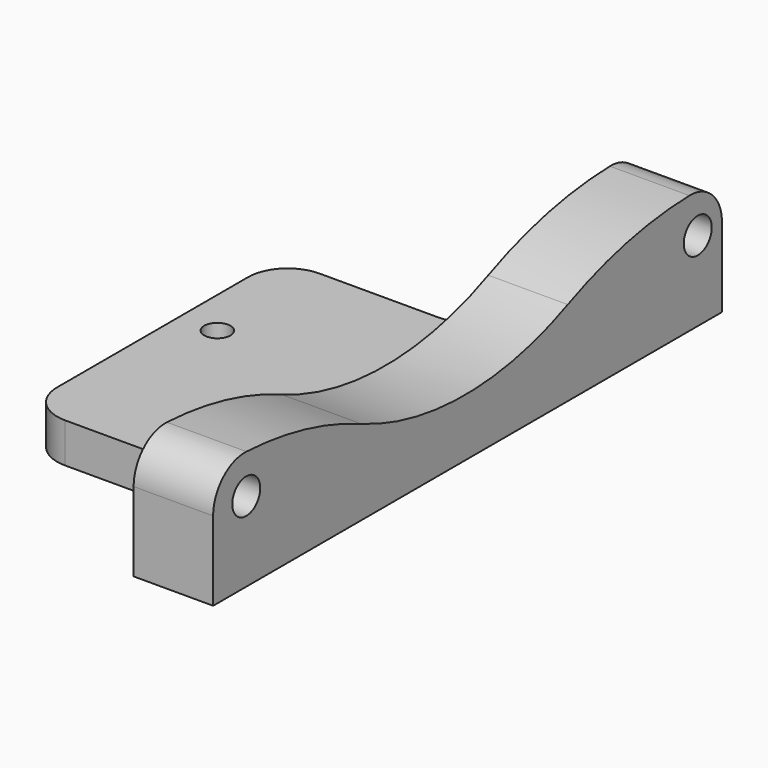
from build123d import *

# Parameters (mm, degrees)
F0_W     = 25
F0_H     = 40
F1_DEPTH = 5
F2_D     = 3.3
F3_DEPTH = 15
F5_DEPTH = 100
F6_R     = 40
F7_DEPTH = 25
F8_R     = 5
F9_R     = 50
F11_D    = 4.4
F12_R    = 5


with BuildPart() as f1:
    # F0 (on Top) → F1 (new body)
    with BuildSketch(Plane.XY):
        Rectangle(F0_W, F0_H)
    extrude(amount=F1_DEPTH)

    # F2 (through all)
    with Locations(Plane(origin=(0, 0, 0), x_dir=(1, 0, 0), z_dir=(0, 0, -1))):
        with Locations((-7.75, -4.25), (7.75, 4.25)):
            Hole(F2_D / 2)

    # F0 (on Top) → F3 (join)
    with BuildSketch(Plane.XY):
        Polygon((12.5, 45.7778535783), (12.5, 20), (12.5, -20), (12.5, -34.2221464217), (22.5, -34.2221464217), (22.5, 45.7778535783), align=None)
    extrude(amount=F3_DEPTH)

    # F4 (on face) → F5 (cut)
    with BuildSketch(Plane.XZ.offset(34.2221464217)):
        Polygon((24.4068726897, 16.530605033), (15.8845428377, 16.530605033), (15.8845428377, 15), (22.5, 15), (22.5, 0), (15.8845428377, 0), (15.8845428377, -1.5078758588), (24.4068726897, -1.5078758588), align=None)
    extrude(amount=-F5_DEPTH, mode=Mode.SUBTRACT)

    # F6 (on Right) → F7 (cut)
    with BuildSketch(Plane.YZ):
        with Locations((5.292929709, 47.2443401814)):
            Circle(F6_R)
    extrude(amount=F7_DEPTH, mode=Mode.SUBTRACT)

    # F8
    f8_edges = [f1.edges().sort_by_distance(p)[0] for p in [
        (12.5, -20, 2.5),
        (12.5, 20, 2.5),
        (-12.5, 20, 2.5),
        (-12.5, -20, 2.5),
    ]]
    fillet(f8_edges, radius=F8_R)

    # F9
    f9_edges = [f1.edges().sort_by_distance(p)[0] for p in [
        (17.5, -18.377781, 15),
        (17.5, 28.96364, 15),
    ]]
    fillet(f9_edges, radius=F9_R)

    # F11 (through all)
    with Locations(Plane.YZ.offset(22.5)):
        with Locations((-29.0194526315, 10.0306486711), (41.9805473685, 10.0306486711)):
            Hole(F11_D / 2)

    # F12
    f12_edges = [f1.edges().sort_by_distance(p)[0] for p in [
        (17.5, -34.222146, 15),
        (17.5, 45.777854, 15),
    ]]
    fillet(f12_edges, radius=F12_R)


solid = f1.part
